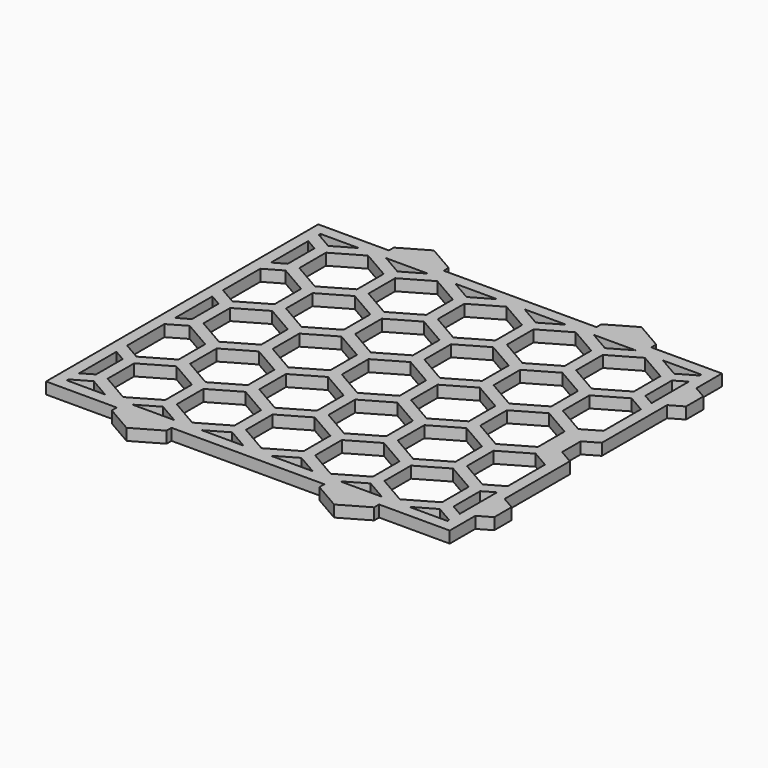
from build123d import *

# Parameters (mm, degrees)
F0_W      = 140
F0_H      = 118
F0_W_2    = 132
F0_H_2    = 110
F1_DEPTH  = 4
F2_W      = 140
F2_H      = 118
F3_DEPTH  = 4
F5_DEPTH  = 4
F7_DEPTH  = 4
F9_DEPTH  = 4
F11_DEPTH = 4.001


with BuildPart() as f1:
    # F0 (on Top) → F1 (new body)
    with BuildSketch(Plane.XY):
        Rectangle(F0_W, F0_H)
        Rectangle(F0_W_2, F0_H_2, mode=Mode.SUBTRACT)
    extrude(amount=F1_DEPTH)

    # F2 (on Top) → F3 (join, through all)
    with BuildSketch(Plane.XY):
        Rectangle(F2_W, F2_H)
        Polygon((-66, -54.272487), (-60, -50.808385), (-52.73991, -55), (-66, -55), align=None, mode=Mode.SUBTRACT)
        Polygon((-43.26009, -55), (-36, -50.808385), (-28.73991, -55), align=None, mode=Mode.SUBTRACT)
        Polygon((-62, -35.796497), (-62, -47.343503), (-66, -49.652904), (-66, -33.487096), align=None, mode=Mode.SUBTRACT)
        Polygon((-38, -35.796497), (-38, -47.343503), (-48, -53.117005), (-58, -47.343503), (-58, -35.796497), (-48, -30.022995), align=None, mode=Mode.SUBTRACT)
        Polygon((-19.26009, -55), (-12, -50.808385), (-4.73991, -55), align=None, mode=Mode.SUBTRACT)
        Polygon((-14, -35.796497), (-14, -47.343503), (-24, -53.117005), (-34, -47.343503), (-34, -35.796497), (-24, -30.022995), align=None, mode=Mode.SUBTRACT)
        Polygon((-60, -9.238385), (-50, -15.011888), (-50, -26.558893), (-60, -32.332396), (-66, -28.868294), (-66, -12.702487), align=None, mode=Mode.SUBTRACT)
        Polygon((-36, -9.238385), (-26, -15.011888), (-26, -26.558893), (-36, -32.332396), (-46, -26.558893), (-46, -15.011888), align=None, mode=Mode.SUBTRACT)
        Polygon((-12, -9.238385), (-2, -15.011888), (-2, -26.558893), (-12, -32.332396), (-22, -26.558893), (-22, -15.011888), align=None, mode=Mode.SUBTRACT)
        Polygon((4.73991, -55), (12, -50.808385), (19.26009, -55), align=None, mode=Mode.SUBTRACT)
        Polygon((10, -35.796497), (10, -47.343503), (0, -53.117005), (-10, -47.343503), (-10, -35.796497), (0, -30.022995), align=None, mode=Mode.SUBTRACT)
        Polygon((34, -35.796497), (34, -47.343503), (24, -53.117005), (14, -47.343503), (14, -35.796497), (24, -30.022995), align=None, mode=Mode.SUBTRACT)
        Polygon((28.73991, -55), (36, -50.808385), (43.26009, -55), align=None, mode=Mode.SUBTRACT)
        Polygon((52.73991, -55), (60, -50.808385), (66, -54.272487), (66, -55), align=None, mode=Mode.SUBTRACT)
        Polygon((58, -35.796497), (58, -47.343503), (48, -53.117005), (38, -47.343503), (38, -35.796497), (48, -30.022995), align=None, mode=Mode.SUBTRACT)
        Polygon((66, -33.487096), (66, -49.652904), (62, -47.343503), (62, -35.796497), align=None, mode=Mode.SUBTRACT)
        Polygon((12, -9.238385), (22, -15.011888), (22, -26.558893), (12, -32.332396), (2, -26.558893), (2, -15.011888), align=None, mode=Mode.SUBTRACT)
        Polygon((36, -9.238385), (46, -15.011888), (46, -26.558893), (36, -32.332396), (26, -26.558893), (26, -15.011888), align=None, mode=Mode.SUBTRACT)
        Polygon((50, -15.011888), (60, -9.238385), (66, -12.702487), (66, -28.868294), (60, -32.332396), (50, -26.558893), align=None, mode=Mode.SUBTRACT)
        Polygon((-62, 5.773503), (-62, -5.773503), (-66, -8.082904), (-66, 8.082904), align=None, mode=Mode.SUBTRACT)
        Polygon((-38, 5.773503), (-38, -5.773503), (-48, -11.547005), (-58, -5.773503), (-58, 5.773503), (-48, 11.547005), align=None, mode=Mode.SUBTRACT)
        Polygon((-60, 32.331615), (-50, 26.558112), (-50, 15.011107), (-60, 9.237604), (-66, 12.701706), (-66, 28.867513), align=None, mode=Mode.SUBTRACT)
        Polygon((-36, 32.331615), (-26, 26.558112), (-26, 15.011107), (-36, 9.237604), (-46, 15.011107), (-46, 26.558112), align=None, mode=Mode.SUBTRACT)
        Polygon((-14, 5.773503), (-14, -5.773503), (-24, -11.547005), (-34, -5.773503), (-34, 5.773503), (-24, 11.547005), align=None, mode=Mode.SUBTRACT)
        Polygon((-12, 32.331615), (-2, 26.558112), (-2, 15.011107), (-12, 9.237604), (-22, 15.011107), (-22, 26.558112), align=None, mode=Mode.SUBTRACT)
        Polygon((-62, 47.343503), (-62, 35.796497), (-66, 33.487096), (-66, 49.652904), align=None, mode=Mode.SUBTRACT)
        Polygon((-38, 47.343503), (-38, 35.796497), (-48, 30.022995), (-58, 35.796497), (-58, 47.343503), (-48, 53.117005), align=None, mode=Mode.SUBTRACT)
        Polygon((-52.738558, 55), (-60, 50.807604), (-66, 54.271706), (-66, 55), align=None, mode=Mode.SUBTRACT)
        Polygon((-28.738558, 55), (-36, 50.807604), (-43.261442, 55), align=None, mode=Mode.SUBTRACT)
        Polygon((-14, 47.343503), (-14, 35.796497), (-24, 30.022995), (-34, 35.796497), (-34, 47.343503), (-24, 53.117005), align=None, mode=Mode.SUBTRACT)
        Polygon((-4.738558, 55), (-12, 50.807604), (-19.261442, 55), align=None, mode=Mode.SUBTRACT)
        Polygon((10, 5.773503), (10, -5.773503), (0, -11.547005), (-10, -5.773503), (-10, 5.773503), (0, 11.547005), align=None, mode=Mode.SUBTRACT)
        Polygon((34, 5.773503), (34, -5.773503), (24, -11.547005), (14, -5.773503), (14, 5.773503), (24, 11.547005), align=None, mode=Mode.SUBTRACT)
        Polygon((12, 32.331615), (22, 26.558112), (22, 15.011107), (12, 9.237604), (2, 15.011107), (2, 26.558112), align=None, mode=Mode.SUBTRACT)
        Polygon((58, 5.773503), (58, -5.773503), (48, -11.547005), (38, -5.773503), (38, 5.773503), (48, 11.547005), align=None, mode=Mode.SUBTRACT)
        Polygon((66, 8.082904), (66, -8.082904), (62, -5.773503), (62, 5.773503), align=None, mode=Mode.SUBTRACT)
        Polygon((36, 32.331615), (46, 26.558112), (46, 15.011107), (36, 9.237604), (26, 15.011107), (26, 26.558112), align=None, mode=Mode.SUBTRACT)
        Polygon((50, 26.558112), (60, 32.331615), (66, 28.867513), (66, 12.701706), (60, 9.237604), (50, 15.011107), align=None, mode=Mode.SUBTRACT)
        Polygon((10, 47.343503), (10, 35.796497), (0, 30.022995), (-10, 35.796497), (-10, 47.343503), (0, 53.117005), align=None, mode=Mode.SUBTRACT)
        Polygon((34, 47.343503), (34, 35.796497), (24, 30.022995), (14, 35.796497), (14, 47.343503), (24, 53.117005), align=None, mode=Mode.SUBTRACT)
        Polygon((19.261442, 55), (12, 50.807604), (4.738558, 55), align=None, mode=Mode.SUBTRACT)
        Polygon((58, 47.343503), (58, 35.796497), (48, 30.022995), (38, 35.796497), (38, 47.343503), (48, 53.117005), align=None, mode=Mode.SUBTRACT)
        Polygon((66, 49.652904), (66, 33.487096), (62, 35.796497), (62, 47.343503), align=None, mode=Mode.SUBTRACT)
        Polygon((43.261442, 55), (36, 50.807604), (28.738558, 55), align=None, mode=Mode.SUBTRACT)
        Polygon((66, 54.271706), (60, 50.807604), (52.738558, 55), (66, 55), align=None, mode=Mode.SUBTRACT)
    extrude(amount=F3_DEPTH)

    # F4 (on Top) → F5 (join, through all)
    with BuildSketch(Plane.XY):
        Polygon((70, 47.920853), (70, 35.219147), (74.5, 37.817223), (74.5, 45.322777), align=None)
        Polygon((70, -35.219147), (70, -47.920853), (74.5, -45.322777), (74.5, -37.817223), align=None)
    extrude(amount=F5_DEPTH)

    # F6 (on Top) → F7 (join, through all)
    with BuildSketch(Plane.XY):
        Polygon((62, -5.773503), (70, -10.392305), (70, 10.392305), (62, 5.773503), align=None)
    extrude(amount=F7_DEPTH)

    # F8 (on Top) → F9 (join, through all)
    with BuildSketch(Plane.XY):
        Polygon((26.5, 61.142174), (26.5, 59), (45.5, 59), (45.5, 61.142174), (36, 66.627002), align=None)
        Polygon((-26.5, 61.142174), (-36, 66.627002), (-45.5, 61.142174), (-45.5, 59), (-26.5, 59), align=None)
        Polygon((45.5, -59), (26.5, -59), (26.5, -61.142174), (36, -66.627002), (45.5, -61.142174), align=None)
        Polygon((-45.5, -61.142174), (-36, -66.627002), (-26.5, -61.142174), (-26.5, -59), (-45.5, -59), align=None)
    extrude(amount=F9_DEPTH)

    # F10 (on Top) → F11 (cut, through all)
    with BuildSketch(Plane.XY):
        Polygon((65, -4.041452), (70, -6.928203), (70, 6.928203), (65, 4.041452), align=None)
    extrude(amount=F11_DEPTH, mode=Mode.SUBTRACT)


solid = f1.part
